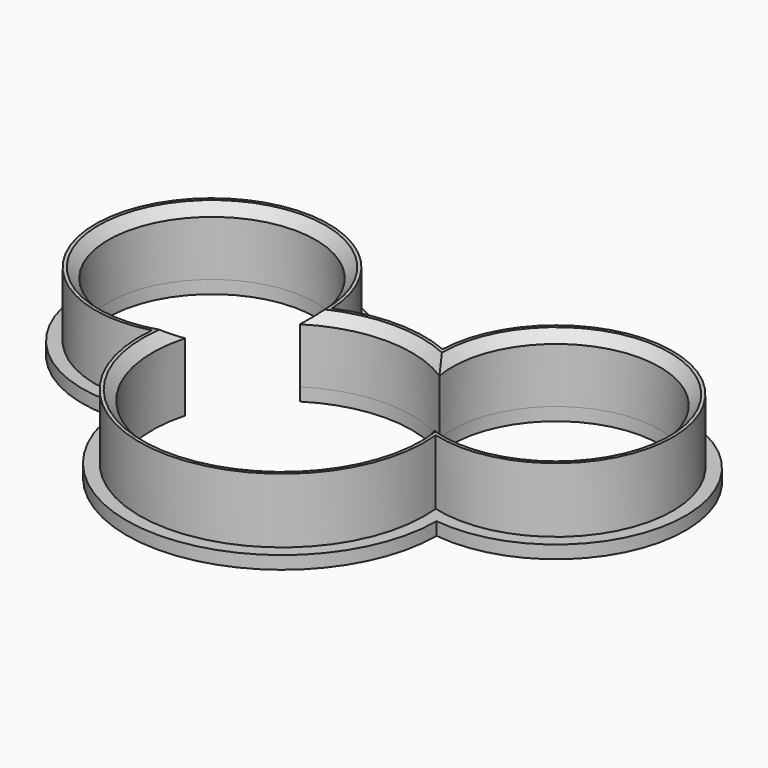
from build123d import *

# Parameters (mm, degrees)
PAD_DEPTH       = 10
SKETCH001_R     = 20
POCKET_DEPTH    = 10
SKETCH002_R     = 16
POCKET001_DEPTH = 10
CHAMFER_SIZE    = 1.5
CHAMFER001_SIZE = 1.5
CHAMFER002_SIZE = 1.5
CHAMFER003_SIZE = 1.5
PAD001_DEPTH    = 2


with BuildPart() as part:
    # Sketch → Pad (new body)
    with BuildSketch(Plane.XY):
        with BuildLine():
            ThreePointArc((38.5386550517, 16.614400785), (57.6494681052, 44.7125163297), (25.1916455851, 34.6518488576))
            ThreePointArc((25.1916455851, 34.6518488576), (16.6527682137, 36.3765542054), (8.1138908423, 34.6518488576))
            ThreePointArc((8.1138908423, 34.6518488576), (-24.3439316777, 44.7125163297), (-5.2331186243, 16.614400785))
            ThreePointArc((-5.2331186243, 16.614400785), (16.6527682137, -7.6234457946), (38.5386550517, 16.614400785))
        make_face()
    extrude(amount=PAD_DEPTH)

    # Sketch001 (on Face6 of Pad) → Pocket (cut)
    with BuildSketch(Plane.XY.offset(10)):
        with Locations((16.6527682137, 14.3765542054)):
            Circle(SKETCH001_R)
    extrude(amount=-POCKET_DEPTH, mode=Mode.SUBTRACT)

    # Sketch002 (on Face5 of Pocket) → Pocket001 (cut)
    with BuildSketch(Plane.XY.offset(10)):
        with Locations((-9.8745081866, 34.0057061682)):
            Circle(SKETCH002_R)
        with Locations((43.1800446141, 34.0057061682)):
            Circle(SKETCH002_R)
    extrude(amount=-POCKET001_DEPTH, mode=Mode.SUBTRACT)

    # Chamfer
    chamfer_edges = [part.edges().sort_by_distance(p)[0] for p in [
        (41.78641, 49.944896, 10),
    ]]
    chamfer(chamfer_edges, length=CHAMFER_SIZE)

    # Chamfer001
    chamfer001_edges = [part.edges().sort_by_distance(p)[0] for p in [
        (36.574516, 16.144027, 10),
    ]]
    chamfer(chamfer001_edges, length=CHAMFER001_SIZE)

    # Chamfer002
    chamfer002_edges = [part.edges().sort_by_distance(p)[0] for p in [
        (15.703375, 34.354008, 10),
    ]]
    chamfer(chamfer002_edges, length=CHAMFER002_SIZE)

    # Chamfer003
    chamfer003_edges = [part.edges().sort_by_distance(p)[0] for p in [
        (-22.998023, 43.158485, 10),
    ]]
    chamfer(chamfer003_edges, length=CHAMFER003_SIZE)

    # Sketch004 (on Face20 of Chamfer003) → Pad001 (join)
    with BuildSketch(Plane(origin=(0, 0, 0), x_dir=(1, 0, 0), z_dir=(0, 0, -1))):
        with BuildLine():
            ThreePointArc((40.6518458567, -14.1661444028), (16.6527682137, 9.6234457946), (-7.3463094293, -14.1661444028))
            ThreePointArc((-7.3463094293, -14.1661444028), (-25.951645399, -45.9021619032), (9.8373328664, -37.3885041668))
            ThreePointArc((9.8373328664, -37.3885041668), (16.6527682137, -38.3765542054), (23.4682035611, -37.3885041668))
            ThreePointArc((23.4682035611, -37.3885041668), (59.2571818264, -45.9021619032), (40.6518458567, -14.1661444028))
        make_face()
        with BuildLine():
            ThreePointArc((35.917730039, -19.7488205682), (16.6527682137, 5.6234457946), (-2.6121936115, -19.7488205682))
            ThreePointArc((-2.6121936115, -19.7488205682), (-22.7362179565, -43.5228707562), (5.8827146104, -31.2290301476))
            ThreePointArc((5.8827146104, -31.2290301476), (16.6527682137, -34.3765542054), (27.422821817, -31.2290301476))
            ThreePointArc((27.422821817, -31.2290301476), (56.041754384, -43.5228707562), (35.917730039, -19.7488205682))
        make_face(mode=Mode.SUBTRACT)
    extrude(amount=PAD001_DEPTH)


solid = part.part
